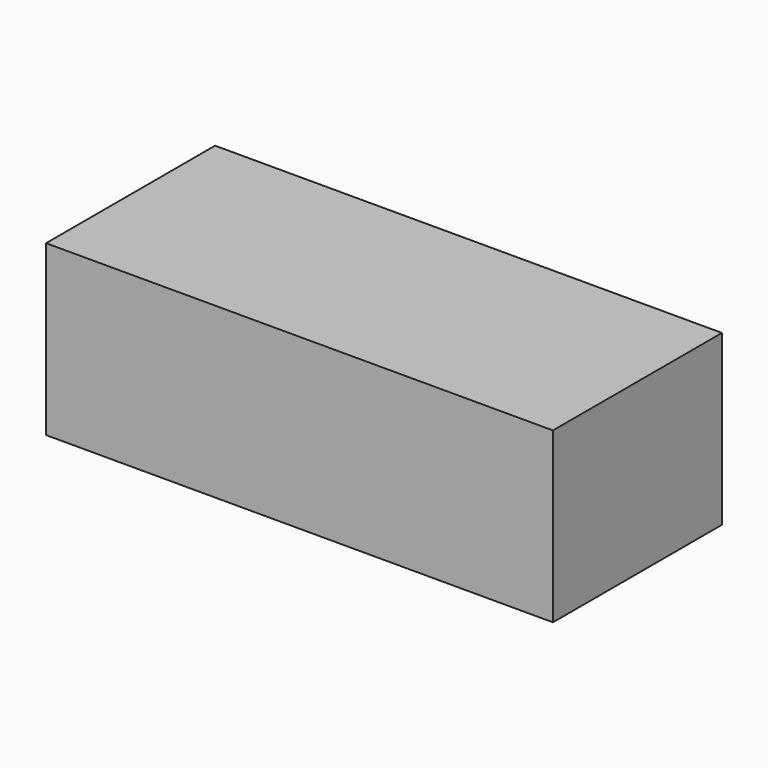
from build123d import *

# Parameters (mm, degrees)
F0_W      = 20.32
F0_H      = 20.32
F0_H_2    = 20.1290453446
F1_DEPTH  = 25.4
F3_W      = 20.32
F3_H      = 20.32
F4_DEPTH  = 25.4
F5_R      = 7.62
F6_DEPTH  = 25.4
F7_R      = 6.35
F8_DEPTH  = 25.4
F9_R      = 6.35
F10_DEPTH = 25.4
F11_R     = 6.35
F12_DEPTH = 25.4


with BuildPart() as f1:
    # F0 (on Front) → F1 (new body)
    with BuildSketch(Plane.XZ):
        with Locations((-50.8, 47.9523509699)):
            Rectangle(F0_W, F0_H)
        with Locations((-30.48, 47.9523509699)):
            Rectangle(F0_W, F0_H)
        with Locations((-50.8, 27.6323509699)):
            Rectangle(F0_W, F0_H)
        Polygon((-20.32, 37.7923509699), (-40.64, 37.7923509699), (-40.64, 17.4723509699), (-20.32, 17.4723509699), (-20.32, 17.6633056253), align=None)
        with Locations((-10.16, 47.9523509699)):
            Rectangle(F0_W, F0_H)
        with Locations((-10.16, 27.7278282976)):
            Rectangle(F0_W, F0_H_2)
    extrude(amount=F1_DEPTH)


with BuildPart() as f4:
    # F3 (on Front) → F4 (new body)
    with BuildSketch(Plane.XZ):
        with Locations((-58.185097698, 49.2102251685)):
            Rectangle(F3_W, F3_H)
        with Locations((-37.865097698, 49.2102251685)):
            Rectangle(F3_W, F3_H)
        with Locations((-17.545097698, 49.2102251685)):
            Rectangle(F3_W, F3_H)
    extrude(amount=F4_DEPTH)

    # F5 (on Front) → F6 (cut)
    with BuildSketch(Plane.XZ):
        with Locations((-58.5276037455, 48.9798672497)):
            Circle(F5_R)
        with Locations((-38.4773612022, 48.9798672497)):
            Circle(F5_R)
        with Locations((-17.4723509699, 48.9798672497)):
            Circle(F5_R)
    extrude(amount=-F6_DEPTH, mode=Mode.SUBTRACT)

    # F7 (on Front) → F8 (cut)
    with BuildSketch(Plane.XZ):
        with Locations((-58.5276037455, 49.3617765605)):
            Circle(F7_R)
        with Locations((-40.5778624117, 49.3617765605)):
            Circle(F7_R)
        with Locations((-22.4371720105, 49.3617765605)):
            Circle(F7_R)
    extrude(amount=-F8_DEPTH, mode=Mode.SUBTRACT)

    # F9 (on Front) → F10 (cut)
    with BuildSketch(Plane.XZ):
        with Locations((-59.1004639864, 49.9346442521)):
            Circle(F9_R)
        with Locations((-41.1507301033, 49.9346442521)):
            Circle(F9_R)
        with Locations((-23.7738545984, 49.9346442521)):
            Circle(F9_R)
    extrude(amount=-F10_DEPTH, mode=Mode.SUBTRACT)

    # F11 (on Front) → F12 (cut)
    with BuildSketch(Plane.XZ):
        with Locations((-59.4823770225, 49.1708219051)):
            Circle(F11_R)
        with Locations((-41.9145487249, 49.1708219051)):
            Circle(F11_R)
        with Locations((-22.0552626997, 49.1708219051)):
            Circle(F11_R)
    extrude(amount=-F12_DEPTH, mode=Mode.SUBTRACT)


solid = f4.part
